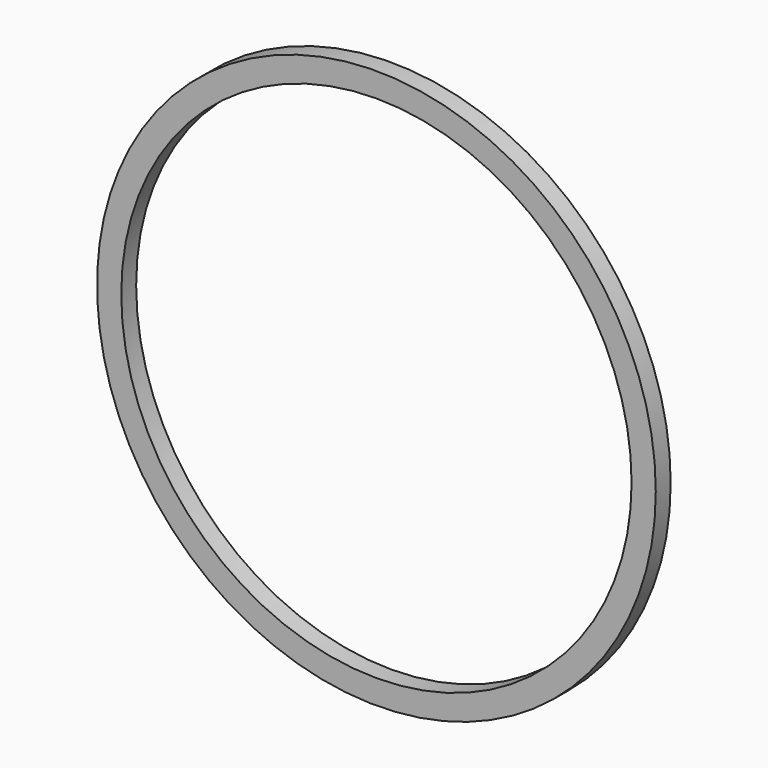
from build123d import *

# Parameters (mm, degrees)
F0_R     = 150
F1_DEPTH = 5
F2_R     = 137
F3_DEPTH = 10


with BuildPart() as f1:
    # F0 (on Front) → F1 (new body, symmetric)
    with BuildSketch(Plane.XZ):
        Circle(F0_R)
    extrude(amount=F1_DEPTH, both=True)

    # F2 (on face) → F3 (cut, through all)
    with BuildSketch(Plane.XZ.offset(5)):
        Circle(F2_R)
    extrude(amount=-F3_DEPTH, mode=Mode.SUBTRACT)


solid = f1.part
